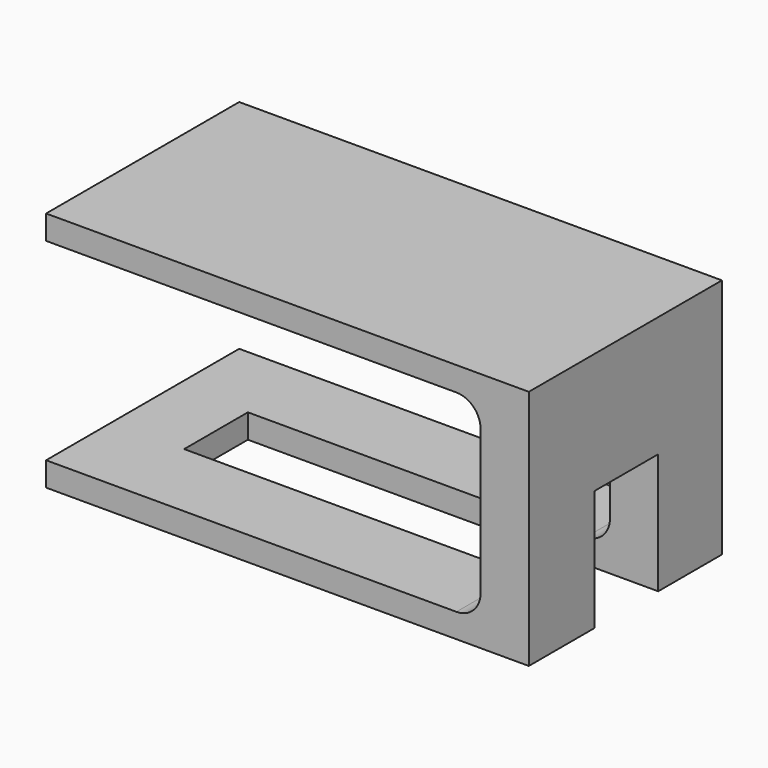
from build123d import *

# Parameters (mm, degrees)
F0_W     = 10
F0_H     = 40
F1_DEPTH = 50
F2_W     = 16.5
F2_H     = 25
F3_DEPTH = 85
F4_R     = 5


with BuildPart() as f1:
    # F0 (on Front) → F1 (new body)
    with BuildSketch(Plane.XZ):
        Polygon((-100, 0), (0, 0), (0, 5), (-10, 5), (-100, 5), align=None)
        Polygon((-10, 45), (0, 45), (0, 50), (-100, 50), (-100, 45), align=None)
        with Locations((-5, 25)):
            Rectangle(F0_W, F0_H)
    extrude(amount=F1_DEPTH)

    # F2 (on Right) → F3 (cut)
    with BuildSketch(Plane.YZ):
        with Locations((-24.75, 12.5)):
            Rectangle(F2_W, F2_H)
    extrude(amount=-F3_DEPTH, mode=Mode.SUBTRACT)

    # F4
    f4_edges = [f1.edges().sort_by_distance(p)[0] for p in [
        (-10, -8.25, 5),
        (-10, -41.5, 5),
        (-10, -25, 45),
    ]]
    fillet(f4_edges, radius=F4_R)


solid = f1.part
